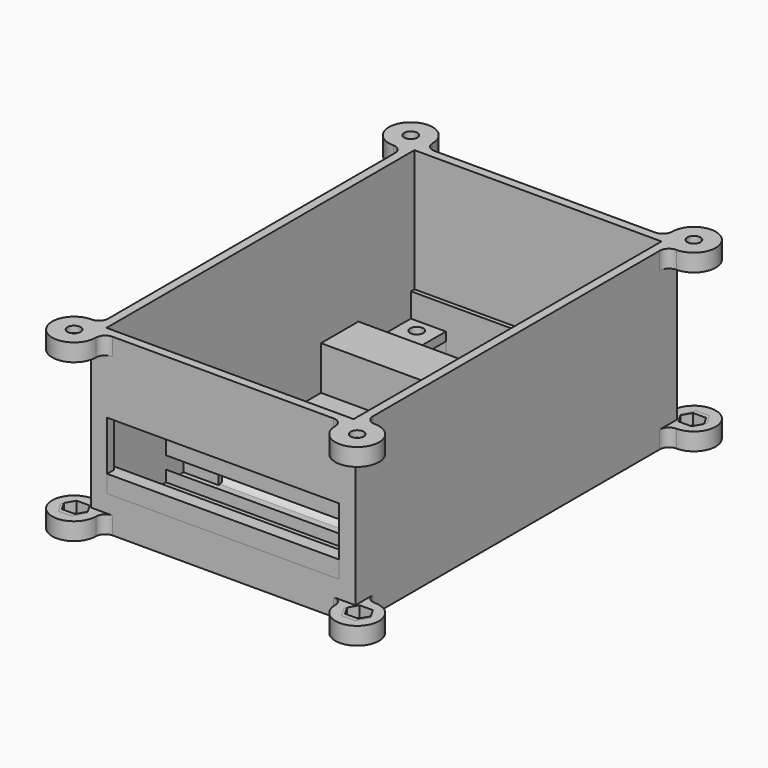
from build123d import *

# Parameters (mm, degrees)
PAD_DEPTH       = 4
SKETCH052_W     = 60.5
SKETCH052_H     = 92
PAD001_DEPTH    = 8
POCKET_DEPTH    = 2.5
SKETCH002_R     = 4.25
POCKET001_DEPTH = 60.5
SKETCH050_W     = 56.5
SKETCH050_H     = 15
SKETCH050_W_2   = 23.25
SKETCH050_H_2   = 34.6
SKETCH050_H_3   = 16
POCKET002_DEPTH = 12
SKETCH053_R     = 1.5
POCKET003_DEPTH = 1.5
PAD002_DEPTH    = 4
SKETCH058_W     = 60.5
SKETCH058_H     = 92
PAD003_DEPTH    = 32
POCKET006_DEPTH = 2.5
SKETCH059_R     = 1.5
POCKET007_DEPTH = 1.5
PAD004_DEPTH    = 4
SKETCH061_W     = 56.5
SKETCH061_H     = 88
POCKET008_DEPTH = 38
SKETCH062_R     = 2.55
POCKET009_DEPTH = 2.5
SKETCH063_R     = 1.5
POCKET010_DEPTH = 1.5
SKETCH064_W     = 8
SKETCH064_H     = 8
PAD005_DEPTH    = 4.5
SKETCH065_W     = 6
SKETCH065_H     = 2.5
POCKET011_DEPTH = 8
SKETCH066_W     = 6
SKETCH066_H     = 2.5
POCKET012_DEPTH = 8
SKETCH067_R     = 1.5
POCKET013_DEPTH = 2
SKETCH068_W     = 53
SKETCH068_H     = 15.3
POCKET014_DEPTH = 2


with BuildPart() as obj1:
    # Sketch → Pad (new body)
    with BuildSketch(Plane.XY):
        with BuildLine():
            ThreePointArc((-27.37132, 48.12132), (-35.906854, 51.656854), (-32.37132, 43.12132))
            ThreePointArc((-30.25, 41), (-30.87132, 42.5), (-32.37132, 43.12132))
            Line((-30.25, 41), (-30.25, -41))
            ThreePointArc((-32.37132, -43.12132), (-30.87132, -42.5), (-30.25, -41))
            ThreePointArc((-32.37132, -43.12132), (-35.906854, -51.656854), (-27.37132, -48.12132))
            ThreePointArc((-25.25, -46), (-26.75, -46.62132), (-27.37132, -48.12132))
            Line((-25.25, -46), (25.25, -46))
            ThreePointArc((27.37132, -48.12132), (26.75, -46.62132), (25.25, -46))
            ThreePointArc((27.37132, -48.12132), (35.906854, -51.656854), (32.37132, -43.12132))
            ThreePointArc((30.25, -41), (30.87132, -42.5), (32.37132, -43.12132))
            Line((30.25, 41), (30.25, -41))
            ThreePointArc((32.37132, 43.12132), (30.87132, 42.5), (30.25, 41))
            ThreePointArc((32.37132, 43.12132), (35.906854, 51.656854), (27.37132, 48.12132))
            ThreePointArc((25.250016, 46), (26.750006, 46.621326), (27.37132, 48.12132))
            Line((-25.25, 46), (25.250016, 46))
            ThreePointArc((-27.37132, 48.12132), (-26.75, 46.62132), (-25.25, 46))
        make_face()
    extrude(amount=PAD_DEPTH)

    # Sketch052 (on Face18 of Pad) → Pad001 (join)
    with BuildSketch(Plane.XY.offset(4)):
        Rectangle(SKETCH052_W, SKETCH052_H)
    extrude(amount=PAD001_DEPTH)

    # Sketch051 (on Face4 of Pad001) → Pocket (cut)
    with BuildSketch(Plane.XY.offset(4)):
        Polygon((-30.87132, 49.719396), (-33.87132, 49.719396), (-35.37132, 47.12132), (-33.87132, 44.523244), (-30.87132, 44.523244), (-29.37132, 47.12132), align=None)
        Polygon((33.87132, 49.719396), (30.87132, 49.719396), (29.37132, 47.12132), (30.87132, 44.523244), (33.87132, 44.523244), (35.37132, 47.12132), align=None)
        Polygon((33.87132, -44.523244), (30.87132, -44.523244), (29.37132, -47.12132), (30.87132, -49.719396), (33.87132, -49.719396), (35.37132, -47.12132), align=None)
        Polygon((-30.87132, -44.523244), (-33.87132, -44.523244), (-35.37132, -47.12132), (-33.87132, -49.719396), (-30.87132, -49.719396), (-29.37132, -47.12132), align=None)
    extrude(amount=-POCKET_DEPTH, mode=Mode.SUBTRACT)

    # Sketch002 (on Face10 of Pocket) → Pocket001 (cut)
    with BuildSketch(Plane.YZ.offset(30.25)):
        with Locations((-23, 6)):
            Circle(SKETCH002_R)
        with Locations((23, 6)):
            Circle(SKETCH002_R)
    extrude(amount=-POCKET001_DEPTH, mode=Mode.SUBTRACT)

    # Sketch050 (on Face9 of Pocket001) → Pocket002 (cut)
    with BuildSketch(Plane.XY.offset(12)):
        with Locations((0, 35.5)):
            Rectangle(SKETCH050_W, SKETCH050_H)
        with Locations((16.625, 0)):
            Rectangle(SKETCH050_W_2, SKETCH050_H_2)
        with Locations((-16.625, 0)):
            Rectangle(SKETCH050_W_2, SKETCH050_H_2)
        with Locations((0, -35)):
            Rectangle(SKETCH050_W, SKETCH050_H_3)
    extrude(amount=-POCKET002_DEPTH, mode=Mode.SUBTRACT)

    # Sketch053 (on Face58 of Pocket002) → Pocket003 (cut)
    with BuildSketch(Plane.XY.offset(1.5)):
        with Locations((-32.37132, 47.12132)):
            Circle(SKETCH053_R)
        with Locations((32.37132, 47.12132)):
            Circle(SKETCH053_R)
        with Locations((-32.37132, -47.12132)):
            Circle(SKETCH053_R)
        with Locations((32.37132, -47.12132)):
            Circle(SKETCH053_R)
    extrude(amount=-POCKET003_DEPTH, mode=Mode.SUBTRACT)


with BuildPart() as obj1_1:
    # Body placement: moved
    add(obj1.part.moved(Location((0, 0, 1))))


with BuildPart() as obj2:
    # Sketch054 → Pad002 (new body)
    with BuildSketch(Plane.XY):
        with BuildLine():
            ThreePointArc((-27.37132, 48.12132), (-35.906854, 51.656854), (-32.37132, 43.12132))
            ThreePointArc((-30.25, 41), (-30.87132, 42.5), (-32.37132, 43.12132))
            Line((-30.25, 41), (-30.25, -41))
            ThreePointArc((-32.37132, -43.12132), (-30.87132, -42.5), (-30.25, -41))
            ThreePointArc((-32.37132, -43.12132), (-35.906854, -51.656854), (-27.37132, -48.12132))
            ThreePointArc((-25.25, -46), (-26.75, -46.62132), (-27.37132, -48.12132))
            Line((-25.25, -46), (25.25, -46))
            ThreePointArc((27.37132, -48.12132), (26.75, -46.62132), (25.25, -46))
            ThreePointArc((27.37132, -48.12132), (35.906854, -51.656854), (32.37132, -43.12132))
            ThreePointArc((30.25, -41), (30.87132, -42.5), (32.37132, -43.12132))
            Line((30.25, 41), (30.25, -41))
            ThreePointArc((32.37132, 43.12132), (30.87132, 42.5), (30.25, 41))
            ThreePointArc((32.37132, 43.12132), (35.906854, 51.656854), (27.37132, 48.12132))
            ThreePointArc((25.250016, 46), (26.750006, 46.621326), (27.37132, 48.12132))
            Line((-25.25, 46), (25.250016, 46))
            ThreePointArc((-27.37132, 48.12132), (-26.75, 46.62132), (-25.25, 46))
        make_face()
    extrude(amount=PAD002_DEPTH)

    # Sketch058 (on Face18 of Pad002) → Pad003 (join)
    with BuildSketch(Plane.XY.offset(4)):
        Rectangle(SKETCH058_W, SKETCH058_H)
    extrude(amount=PAD003_DEPTH)

    # Sketch057 (on Face4 of Pad003) → Pocket006 (cut)
    with BuildSketch(Plane.XY.offset(4)):
        Polygon((-30.87132, 50.718076), (-33.87132, 50.718076), (-35.37132, 48.12), (-33.87132, 45.521924), (-30.87132, 45.521924), (-29.37132, 48.12), align=None)
        Polygon((33.87132, 50.718076), (30.87132, 50.718076), (29.37132, 48.12), (30.87132, 45.521924), (33.87132, 45.521924), (35.37132, 48.12), align=None)
        Polygon((33.87132, -45.521924), (30.87132, -45.521924), (29.37132, -48.12), (30.87132, -50.718076), (33.87132, -50.718076), (35.37132, -48.12), align=None)
        Polygon((-30.87132, -45.521924), (-33.87132, -45.521924), (-35.37132, -48.12), (-33.87132, -50.718076), (-30.87132, -50.718076), (-29.37132, -48.12), align=None)
    extrude(amount=-POCKET006_DEPTH, mode=Mode.SUBTRACT)

    # Sketch059 (on Face35 of Pocket006) → Pocket007 (cut)
    with BuildSketch(Plane.XY.offset(1.5)):
        with Locations((-32.37132, 48.12)):
            Circle(SKETCH059_R)
        with Locations((32.37132, 48.12)):
            Circle(SKETCH059_R)
        with Locations((-32.37132, -48.12)):
            Circle(SKETCH059_R)
        with Locations((32.37132, -48.12)):
            Circle(SKETCH059_R)
    extrude(amount=-POCKET007_DEPTH, mode=Mode.SUBTRACT)

    # Sketch060 (on Face8 of Pocket007) → Pad004 (join)
    with BuildSketch(Plane.XY.offset(36)):
        with BuildLine():
            ThreePointArc((-27.37132, 48.12132), (-35.906854, 51.656854), (-32.37132, 43.12132))
            ThreePointArc((-30.25, 41), (-30.87132, 42.5), (-32.37132, 43.12132))
            Line((-30.25, 41), (-30.25, -41))
            ThreePointArc((-32.37132, -43.12132), (-30.87132, -42.5), (-30.25, -41))
            ThreePointArc((-32.37132, -43.12132), (-35.906854, -51.656854), (-27.37132, -48.12132))
            ThreePointArc((-25.25, -46), (-26.75, -46.62132), (-27.37132, -48.12132))
            Line((-25.25, -46), (25.25, -46))
            ThreePointArc((27.37132, -48.12132), (26.75, -46.62132), (25.25, -46))
            ThreePointArc((27.37132, -48.12132), (35.906854, -51.656854), (32.37132, -43.12132))
            ThreePointArc((30.25, -41), (30.87132, -42.5), (32.37132, -43.12132))
            Line((30.25, 41), (30.25, -41))
            ThreePointArc((32.37132, 43.12132), (30.87132, 42.5), (30.25, 41))
            ThreePointArc((32.37132, 43.12132), (35.906854, 51.656854), (27.37132, 48.12132))
            ThreePointArc((25.250016, 46), (26.750006, 46.621326), (27.37132, 48.12132))
            Line((-25.25, 46), (25.250016, 46))
            ThreePointArc((-27.37132, 48.12132), (-26.75, 46.62132), (-25.25, 46))
        make_face()
    extrude(amount=PAD004_DEPTH)

    # Sketch061 (on Face57 of Pad004) → Pocket008 (cut)
    with BuildSketch(Plane.XY.offset(40)):
        Rectangle(SKETCH061_W, SKETCH061_H)
    extrude(amount=-POCKET008_DEPTH, mode=Mode.SUBTRACT)

    # Sketch062 (on Face36 of Pocket008) → Pocket009 (cut)
    with BuildSketch(Plane(origin=(0, 0, 36), x_dir=(1, 0, 0), z_dir=(0, 0, -1))):
        with Locations((-32.37132, 48.12)):
            Circle(SKETCH062_R)
        with Locations((32.37132, 48.12)):
            Circle(SKETCH062_R)
        with Locations((-32.37132, -48.12)):
            Circle(SKETCH062_R)
        with Locations((32.37132, -48.12)):
            Circle(SKETCH062_R)
    extrude(amount=-POCKET009_DEPTH, mode=Mode.SUBTRACT)

    # Sketch063 (on Face10 of Pocket009) → Pocket010 (cut)
    with BuildSketch(Plane.XY.offset(40)):
        with Locations((-32.37132, 48.12)):
            Circle(SKETCH063_R)
        with Locations((32.37132, 48.12)):
            Circle(SKETCH063_R)
        with Locations((-32.37132, -48.12)):
            Circle(SKETCH063_R)
        with Locations((32.37132, -48.12)):
            Circle(SKETCH063_R)
    extrude(amount=-POCKET010_DEPTH, mode=Mode.SUBTRACT)

    # Sketch064 (on Face79 of Pocket010) → Pad005 (join)
    with BuildSketch(Plane.XY.offset(2)):
        with Locations((-24.25, 40)):
            Rectangle(SKETCH064_W, SKETCH064_H)
        with Locations((24.25, 40)):
            Rectangle(SKETCH064_W, SKETCH064_H)
        with Locations((-24.25, -18)):
            Rectangle(SKETCH064_W, SKETCH064_H)
        with Locations((24.25, -18)):
            Rectangle(SKETCH064_W, SKETCH064_H)
    extrude(amount=PAD005_DEPTH)

    # Sketch065 (on Face85 of Pad005) → Pocket011 (cut)
    with BuildSketch(Plane.YZ.offset(-20.25)):
        with Locations((-18, 3.25)):
            Rectangle(SKETCH065_W, SKETCH065_H)
        with Locations((40, 3.25)):
            Rectangle(SKETCH065_W, SKETCH065_H)
    extrude(amount=-POCKET011_DEPTH, mode=Mode.SUBTRACT)

    # Sketch066 (on Face85 of Pocket011) → Pocket012 (cut)
    with BuildSketch(Plane(origin=(20.25, 0, 0), x_dir=(0, -1, 0), z_dir=(-1, 0, 0))):
        with Locations((-40, 3.25)):
            Rectangle(SKETCH066_W, SKETCH066_H)
        with Locations((18, 3.25)):
            Rectangle(SKETCH066_W, SKETCH066_H)
    extrude(amount=-POCKET012_DEPTH, mode=Mode.SUBTRACT)

    # Sketch067 (on Face83 of Pocket012) → Pocket013 (cut)
    with BuildSketch(Plane.XY.offset(6.5)):
        with Locations((-24.5, 40)):
            Circle(SKETCH067_R)
        with Locations((24.5, 40)):
            Circle(SKETCH067_R)
        with Locations((-24.5, -18)):
            Circle(SKETCH067_R)
        with Locations((24.5, -18)):
            Circle(SKETCH067_R)
    extrude(amount=-POCKET013_DEPTH, mode=Mode.SUBTRACT)

    # Sketch068 (on Face22 of Pocket013) → Pocket014 (cut)
    with BuildSketch(Plane.XZ.offset(46)):
        with Locations((0, 15.65)):
            Rectangle(SKETCH068_W, SKETCH068_H)
    extrude(amount=-POCKET014_DEPTH, mode=Mode.SUBTRACT)


with BuildPart() as obj2_1:
    # Body001 placement: moved
    add(obj2.part.moved(Location((0, 0, 1))))


solid = Compound([obj1_1.part, obj2_1.part])
